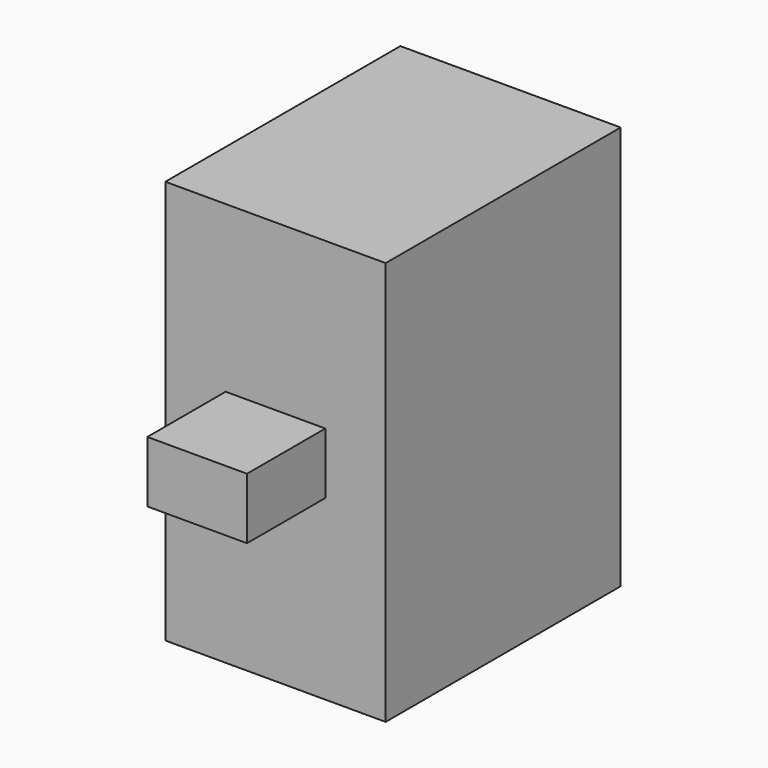
from build123d import *

# Parameters (mm, degrees)
F0_W      = 457.2
F0_H      = 609.6
F1_DEPTH  = 838.2
F2_W      = 206.756
F2_H      = 127
F3_DEPTH  = 25.4
F3_FACE_W = 206.756
F3_FACE_H = 127
F4_DEPTH  = 177.8


with BuildPart() as f1:
    # F0 (on Top) → F1 (new body)
    with BuildSketch(Plane.XY):
        with Locations((228.6, 304.8)):
            Rectangle(F0_W, F0_H)
    extrude(amount=F1_DEPTH)

    # F2 (on face) → F3 (join)
    with BuildSketch(Plane.XZ):
        with Locations((228.6, 431.8)):
            Rectangle(F2_W, F2_H)
    extrude(amount=F3_DEPTH)

    # F3_face (on face) → F4 (join)
    with BuildSketch(Plane(origin=(228.6, -25.4, 431.8), x_dir=(1, 0, 0), z_dir=(0, -1, 0))):
        Rectangle(F3_FACE_W, F3_FACE_H)
    extrude(amount=F4_DEPTH)


solid = f1.part
